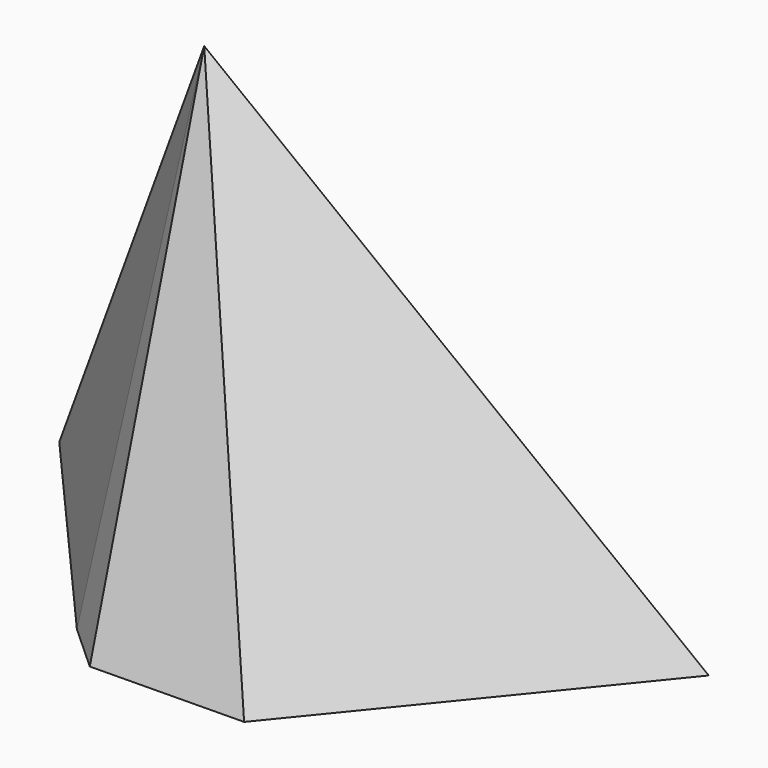
from build123d import *


with BuildPart() as f3:
    # F0 (on Top) → F3 section 0
    with BuildSketch(Plane.XY, mode=Mode.PRIVATE) as f3_s0:
        Polygon((0, 38.447011), (-62.144611, 38.447011), (-19.924823, -9.866355), (-10.3492, -18.571466), (20.553943, -18.136211), (67.9968, 40.188033), (26.647519, 40.188033), (7.496277, 24.518834), align=None)
    loft([Vertex(-8.965534, 8.669882, 100), f3_s0.sketch])


solid = f3.part
